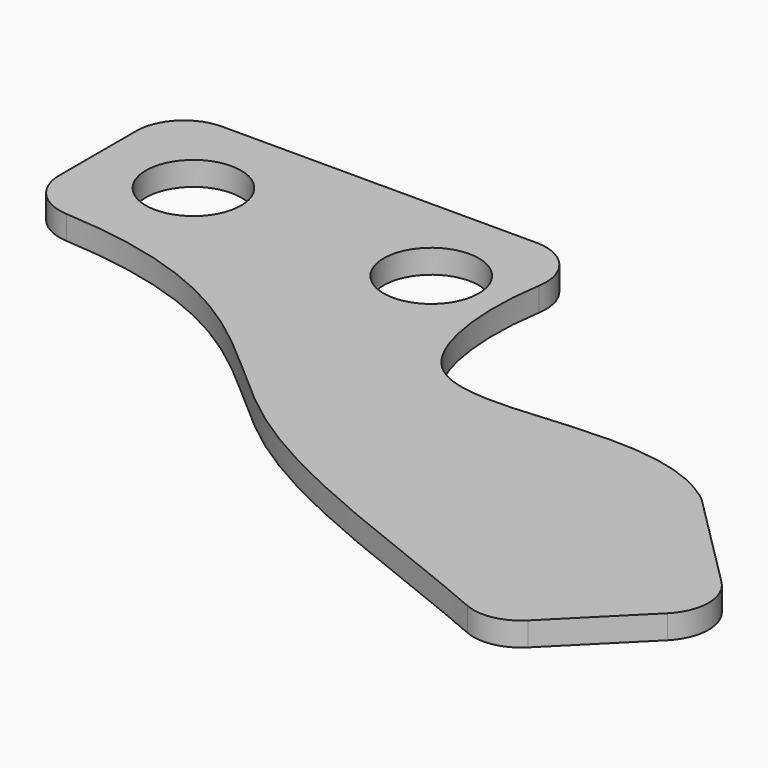
from build123d import *

# Parameters (mm, degrees)
F0_R     = 6.35
F1_DEPTH = 3.175


with BuildPart() as f1:
    # F0 (on Top) → F1 (new body)
    with BuildSketch(Plane.XY):
        with BuildLine():
            Line((60.5063542363, -35.1067827146), (47.3507668446, -21.9511953229))
            ThreePointArc((47.3507668446, -21.9511953229), (46.9876761939, -21.6153455325), (46.5995474935, -21.3087741472))
            add(Edge.make_bspline(
                [(3.8225817445, 5.304569347), (2.6310578686, -1.8593742491), (4.1512597782, -28.3228214007), (33.9626243975, -12.1031533827), (46.5995474935, -21.3087741472)],
                knots=[0.1434430996, 0.1434430996, 0.1434430996, 0.1434430996, 0.4571855933, 0.9937871962, 0.9937871962, 0.9937871962, 0.9937871962], degree=3))
            ThreePointArc((3.8225817445, 5.304569347), (2.4031201664, 10.4516965076), (-2.4413690771, 12.696404317))
            Line((-2.4413690771, 12.696404317), (-44.4447802544, 12.696404317))
            ThreePointArc((-44.4447802544, 12.696404317), (-48.9349083149, 10.8365323776), (-50.7947802544, 6.346404317))
            Line((-50.7947802544, 6.346404317), (-50.7947802544, 0))
            Line((-50.7947802544, 0), (-50.7947802544, -6.4982147336))
            ThreePointArc((-50.7947802544, -6.4982147336), (-49.0599498847, -10.8597178326), (-44.8033757558, -12.8380813935))
            add(Edge.make_bspline(
                [(-44.8033757558, -12.8380813935), (-19.0754124939, -14.293306303), (-5.9431063849, -38.8331112749), (28.4454215414, -49.4441912723), (43.1137533873, -55.800864632)],
                knots=[0.034872183, 0.034872183, 0.034872183, 0.034872183, 0.5092578503, 0.9593124241, 0.9593124241, 0.9593124241, 0.9593124241], degree=3))
            ThreePointArc((43.1137533873, -55.800864632), (46.8269316745, -56.2122791238), (50.1288211803, -54.4645718918))
            Line((50.1288211803, -54.4645718918), (60.5063542363, -44.0870388357))
            ThreePointArc((60.5063542363, -44.0870388357), (62.3662261758, -39.5969107752), (60.5063542363, -35.1067827146))
        make_face()
        with Locations((-38.0947802544, 0)):
            Circle(F0_R, mode=Mode.SUBTRACT)
        with Locations((-6.3447802544, 0)):
            Circle(F0_R, mode=Mode.SUBTRACT)
    extrude(amount=F1_DEPTH)


solid = f1.part
